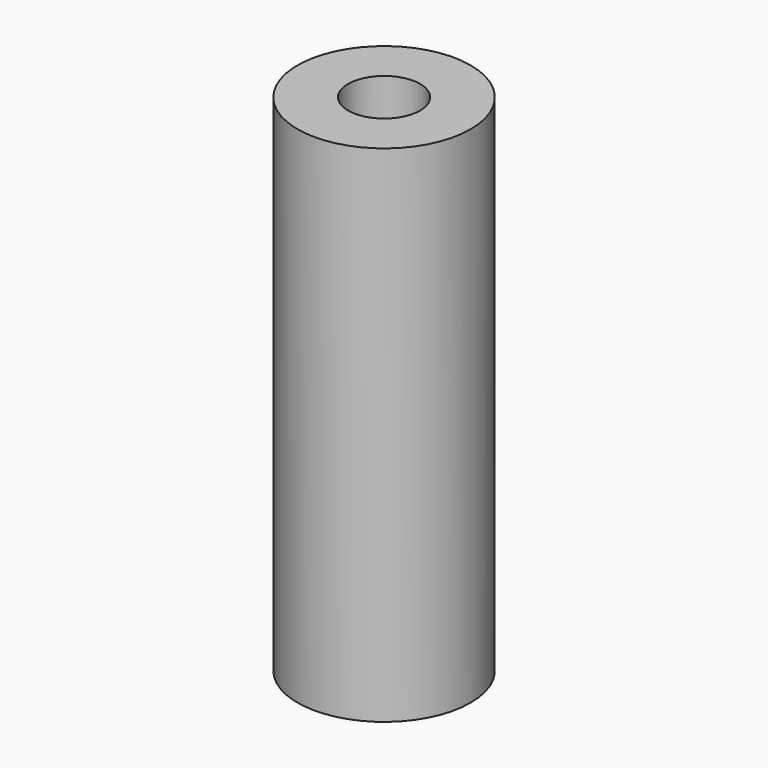
from build123d import *

# Parameters (mm, degrees)
SKETCH_R   = 6
SKETCH_R_2 = 2.5
PAD_DEPTH  = 35


with BuildPart() as part:
    # Sketch → Pad (new body)
    with BuildSketch(Plane.XY):
        Circle(SKETCH_R)
        Circle(SKETCH_R_2, mode=Mode.SUBTRACT)
    extrude(amount=PAD_DEPTH)


solid = part.part
